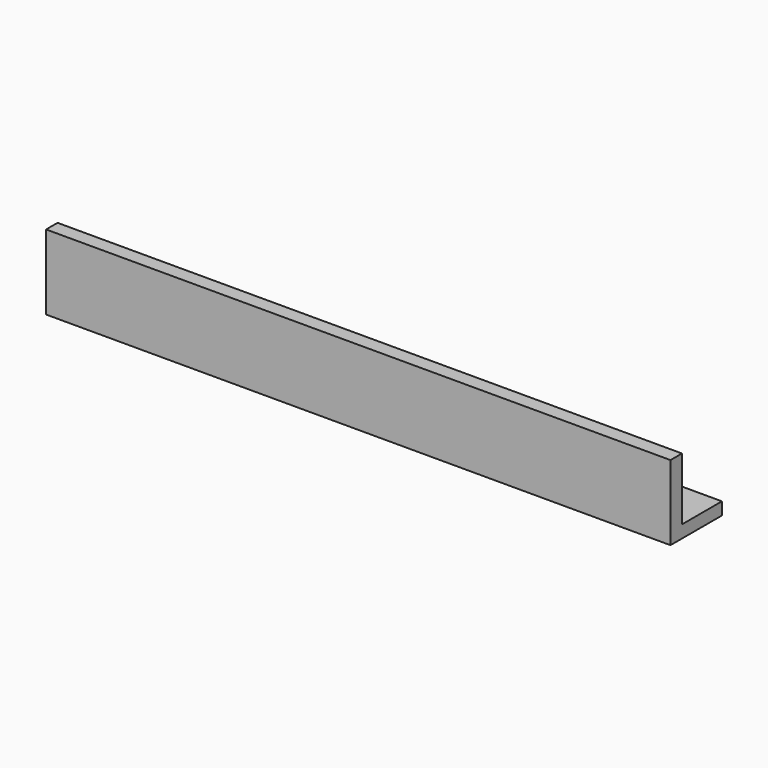
from build123d import *

# Parameters (mm, degrees)
F1_DEPTH = 100
F2_R     = 1.5
F3_DEPTH = 25


with BuildPart() as f1:
    # F0 (on Right) → F1 (new body)
    with BuildSketch(Plane.YZ):
        Polygon((0, 12), (0, 0), (10.3, 0), (10.3, 2), (2.3, 2), (2.3, 12), align=None)
    extrude(amount=F1_DEPTH)

    # F2 (on face) → F3 (cut)
    with BuildSketch(Plane.XY.offset(2)):
        with Locations((85, 6.3)):
            Circle(F2_R)
        with Locations((15, 6.3)):
            Circle(F2_R)
    extrude(amount=-F3_DEPTH, mode=Mode.SUBTRACT)


solid = f1.part
